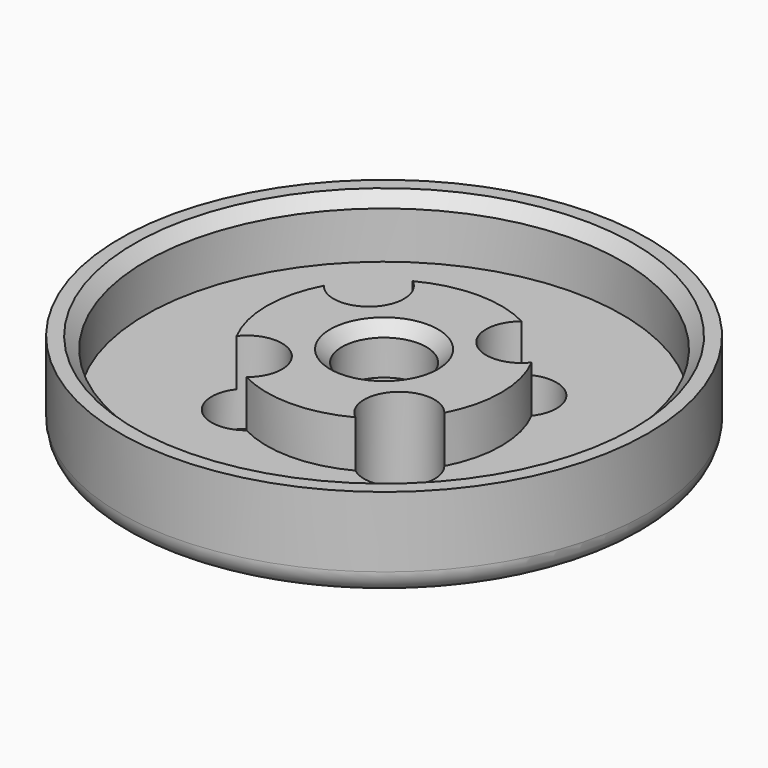
from build123d import *

# Parameters (mm, degrees)
SKETCH_R        = 22.5
PAD_DEPTH       = 3
SKETCH001_R     = 22.5
SKETCH001_R_2   = 20.3
PAD001_DEPTH    = 5
SKETCH002_R     = 10
SKETCH002_R_2   = 3.6
PAD002_DEPTH    = 4
SKETCH003_R     = 3
POCKET_DEPTH    = 8.001
FILLET_R        = 2
CHAMFER_SIZE    = 1
CHAMFER001_SIZE = 1


with BuildPart() as part:
    # Sketch → Pad (new body)
    with BuildSketch(Plane.XY):
        Circle(SKETCH_R)
    extrude(amount=PAD_DEPTH)

    # Sketch001 (on Face3 of Pad) → Pad001 (join)
    with BuildSketch(Plane.XY.offset(3)):
        Circle(SKETCH001_R)
        Circle(SKETCH001_R_2, mode=Mode.SUBTRACT)
    extrude(amount=PAD001_DEPTH)

    # Sketch002 (on Face5 of Pad001) → Pad002 (join)
    with BuildSketch(Plane.XY.offset(3)):
        Circle(SKETCH002_R)
        Circle(SKETCH002_R_2, mode=Mode.SUBTRACT)
    extrude(amount=PAD002_DEPTH)

    # Sketch003 (on Face1 of Pad002) → Pocket (cut, through all)
    with BuildSketch(Plane(origin=(0, 0, 0), x_dir=(1, 0, 0), z_dir=(0, 0, -1))):
        with Locations((-6.5, 6.5)):
            Circle(SKETCH003_R)
        with Locations((-6.5, -6.5)):
            Circle(SKETCH003_R)
        with Locations((6.5, -6.5)):
            Circle(SKETCH003_R)
        with Locations((6.5, 6.5)):
            Circle(SKETCH003_R)
    extrude(amount=-POCKET_DEPTH, mode=Mode.SUBTRACT)

    # Fillet
    fillet_edges = [part.edges().sort_by_distance(p)[0] for p in [
        (-22.5, 0, 0),
    ]]
    fillet(fillet_edges, radius=FILLET_R)

    # Chamfer
    chamfer_edges = [part.edges().sort_by_distance(p)[0] for p in [
        (-20.3, 0, 8),
    ]]
    chamfer(chamfer_edges, length=CHAMFER_SIZE)

    # Chamfer001
    chamfer001_edges = [part.edges().sort_by_distance(p)[0] for p in [
        (-3.6, 0, 7),
    ]]
    chamfer(chamfer001_edges, length=CHAMFER001_SIZE)


solid = part.part
